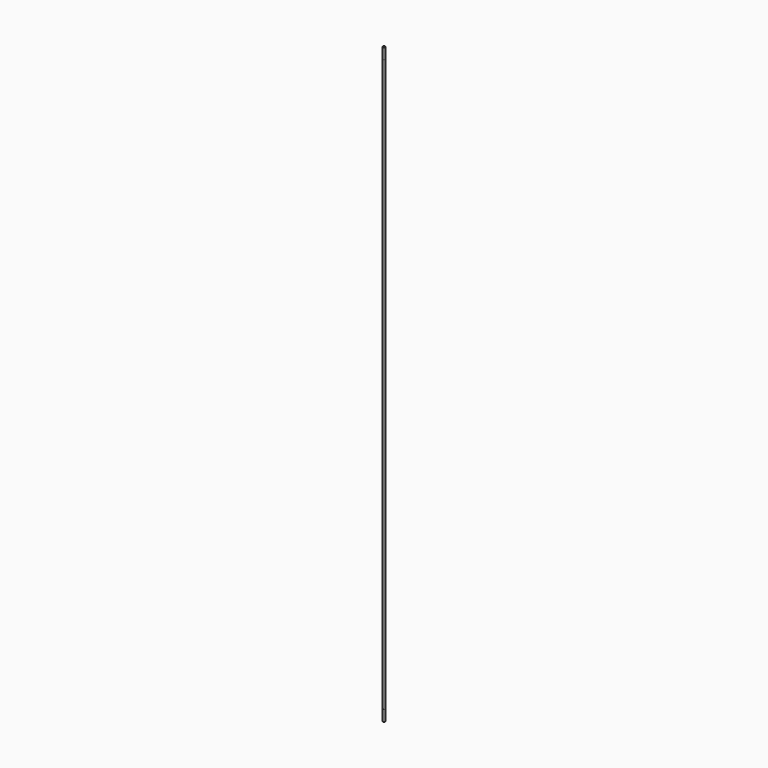
from build123d import *

# Parameters (mm, degrees)
F0_R     = 4.7625
F1_DEPTH = 1295.4
F2_R     = 4.699
F3_DEPTH = 50.8
F5_SIZE  = 0.762


with BuildPart() as f1:
    # F0 (on Top) → F1 (new body, symmetric)
    with BuildSketch(Plane.XY):
        Circle(F0_R)
    extrude(amount=F1_DEPTH, both=True)

    # F2 (on face) → F3 (join)
    with BuildSketch(Plane.XY.offset(1295.4)):
        Circle(F2_R)
    extrude(amount=F3_DEPTH)

    # F4: F1 across plane


with BuildPart() as f1_1:
    add(f1.part)
    add(f1.part.mirror(Plane.XY))

    # F5
    f5_edges = [f1_1.edges().sort_by_distance(p)[0] for p in [
        (-4.699, 0, 1346.2),
        (-4.699, 0, -1346.2),
    ]]
    chamfer(f5_edges, length=F5_SIZE)


solid = f1_1.part
